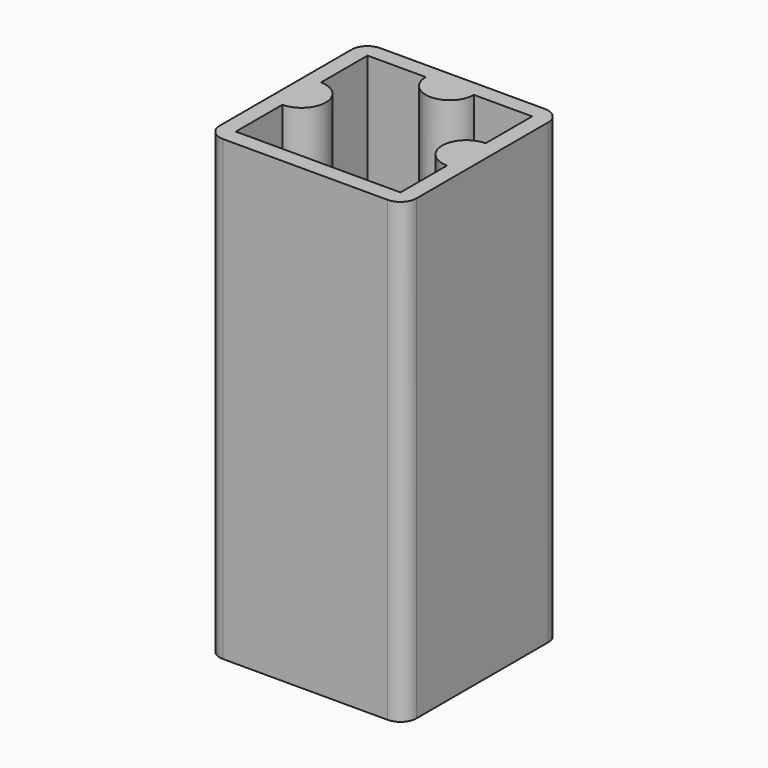
from build123d import *

# Parameters (mm, degrees)
F0_W     = 24.5
F0_H     = 24.5
F1_DEPTH = 37
F2_DEPTH = 20
F3_DEPTH = 3
F5_DEPTH = 2.7
F6_R     = 2
F7_ANGLE = -180


with BuildPart() as f1:
    # F0 (on Top) → F1 (new body)
    with BuildSketch(Plane.XY):
        Rectangle(F0_W, F0_H)
        Polygon((10.25, -3), (10.25, -10.25), (3, -10.25), (-3, -10.25), (-10.25, -10.25), (-10.25, -3), (-10.25, 3), (-10.25, 10.25), (-3, 10.25), (3, 10.25), (10.25, 10.25), (10.25, 3), align=None, mode=Mode.SUBTRACT)
    extrude(amount=F1_DEPTH)

    # F0 (on Top) → F2 (join)
    with BuildSketch(Plane.XY):
        Rectangle(F0_W, F0_H)
        Polygon((10.25, -3), (10.25, -10.25), (3, -10.25), (-3, -10.25), (-10.25, -10.25), (-10.25, -3), (-10.25, 3), (-10.25, 10.25), (-3, 10.25), (3, 10.25), (10.25, 10.25), (10.25, 3), align=None, mode=Mode.SUBTRACT)
        with BuildLine():
            Line((-3, -10.25), (3, -10.25))
            ThreePointArc((3, -10.25), (0, -7.25), (-3, -10.25))
        make_face()
        with BuildLine():
            Line((-10.25, 3), (-10.25, -3))
            ThreePointArc((-10.25, -3), (-7.25, 0), (-10.25, 3))
        make_face()
        with BuildLine():
            ThreePointArc((10.25, 3), (7.25, 0), (10.25, -3))
            Line((10.25, -3), (10.25, 3))
        make_face()
    extrude(amount=-F2_DEPTH)

    # F0 (on Top) → F3 (join)
    with BuildSketch(Plane.XY):
        with BuildLine():
            Line((3, -10.25), (10.25, -10.25))
            Line((10.25, -10.25), (10.25, -3))
            ThreePointArc((10.25, -3), (7.25, 0), (10.25, 3))
            Line((10.25, 3), (10.25, 10.25))
            Line((10.25, 10.25), (3, 10.25))
            ThreePointArc((3, 10.25), (0, 7.25), (-3, 10.25))
            Line((-3, 10.25), (-10.25, 10.25))
            Line((-10.25, 10.25), (-10.25, 3))
            ThreePointArc((-10.25, 3), (-7.25, 0), (-10.25, -3))
            Line((-10.25, -3), (-10.25, -10.25))
            Line((-10.25, -10.25), (-3, -10.25))
            ThreePointArc((-3, -10.25), (0, -7.25), (3, -10.25))
        make_face()
        with BuildLine():
            Line((-10.25, 3), (-10.25, -3))
            ThreePointArc((-10.25, -3), (-7.25, 0), (-10.25, 3))
        make_face()
        with BuildLine():
            Line((-3, -10.25), (3, -10.25))
            ThreePointArc((3, -10.25), (0, -7.25), (-3, -10.25))
        make_face()
        with BuildLine():
            ThreePointArc((10.25, 3), (7.25, 0), (10.25, -3))
            Line((10.25, -3), (10.25, 3))
        make_face()
    extrude(amount=F3_DEPTH)

    # F4 (on face) → F5 (cut)
    with BuildSketch(Plane(origin=(0, 0, 0), x_dir=(1, 0, 0), z_dir=(0, 0, -1))):
        with BuildLine():
            Line((3, -10.25), (3, 0))
            ThreePointArc((3, 0), (0, -3), (-3, 0))
            Line((-3, 0), (-3, -10.25))
            ThreePointArc((-3, -10.25), (0, -7.25), (3, -10.25))
        make_face()
        with BuildLine():
            ThreePointArc((-3, 0), (0, -3), (3, 0))
            ThreePointArc((3, 0), (0, 3), (-3, 0))
        make_face()
    extrude(amount=-F5_DEPTH, mode=Mode.SUBTRACT)

    # F6
    f6_edges = [f1.edges().sort_by_distance(p)[0] for p in [
        (-12.25, -12.25, 8.5),
        (12.25, -12.25, 8.5),
        (12.25, 12.25, 8.5),
        (-12.25, 12.25, 8.5),
    ]]
    fillet(f6_edges, radius=F6_R)


with BuildPart() as f1_1:
    # F7: moved
    add(f1.part.rotate(Axis((0, -12.25, 37), (-1, 0, 0)), F7_ANGLE))


solid = f1_1.part
